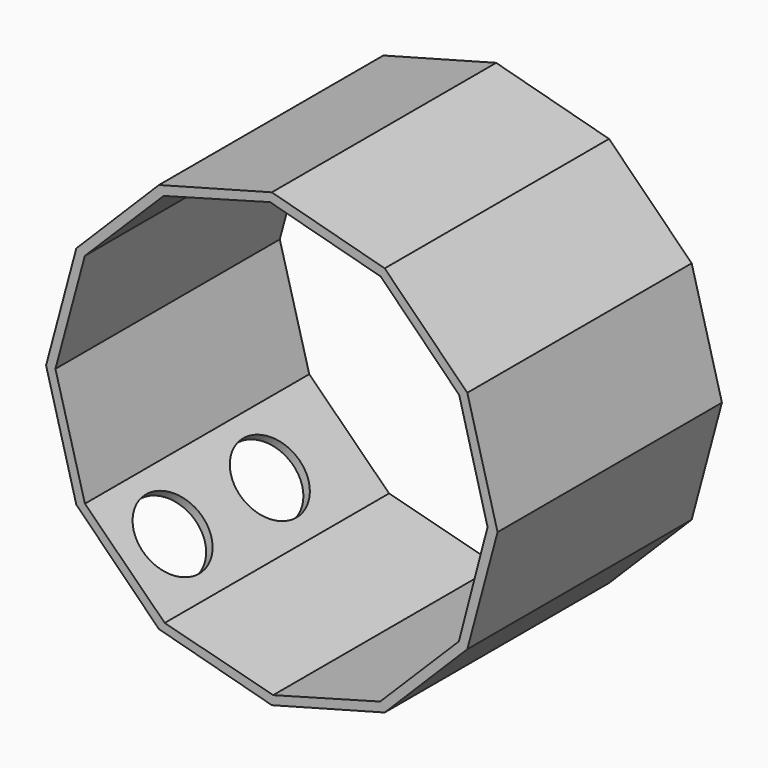
from build123d import *

# Parameters (mm, degrees)
PAD_DEPTH       = 60
POCKET_DEPTH    = 60
SKETCH002_R     = 8
POCKET001_DEPTH = 5


with BuildPart() as part:
    # Sketch → Pad (new body)
    with BuildSketch(Plane.XZ):
        Polygon((0, 13.137292), (-24.148146, 6.666816), (-41.825815, -11.010853), (-48.296291, -35.158999), (-41.825815, -59.307145), (-24.148146, -76.984814), (0, -83.45529), (24.148146, -76.984814), (41.825815, -59.307145), (48.296291, -35.158999), (41.825815, -11.010853), (24.148146, 6.666816), align=None)
    extrude(amount=PAD_DEPTH)

    # Sketch001 (on Face13 of Pad) → Pocket (cut)
    with BuildSketch(Plane(origin=(0, 0, 0), x_dir=(1, 0, 0), z_dir=(0, 1, 0))):
        Polygon((0.278927, 81.474836), (23.169698, 75.240498), (40.032056, 58.422596), (46.155051, 34.895188), (40.08724, 11.999467), (23.293364, -4.858682), (-0.357735, -11.169546), (-23.145897, -4.936066), (-40.001684, 11.830942), (-46.296318, 35.16935), (-39.990105, 58.513313), (-22.910018, 75.414133), align=None)
    extrude(amount=-POCKET_DEPTH, mode=Mode.SUBTRACT)

    # Sketch002 (on Face11 of Pocket) → Pocket001 (cut)
    with BuildSketch(Plane(origin=(-50.56648, 0, -50.56648), x_dir=(0.707107, 0, -0.707107), z_dir=(-0.707107, 0, -0.707107))):
        with Locations((24.861167, 47)):
            Circle(SKETCH002_R)
        with Locations((24.861167, 21)):
            Circle(SKETCH002_R)
    extrude(amount=-POCKET001_DEPTH, mode=Mode.SUBTRACT)


solid = part.part
